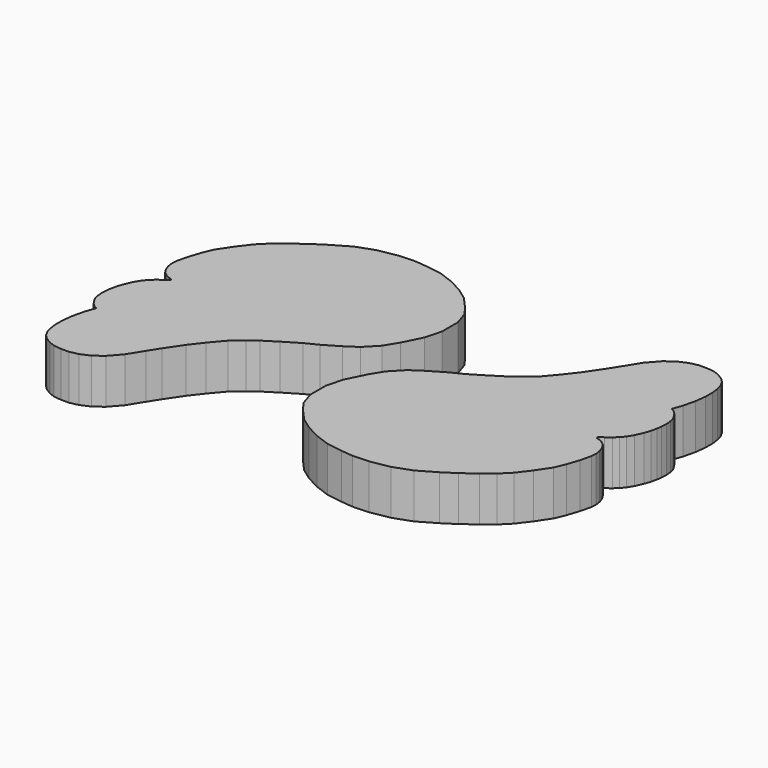
from build123d import *

# Parameters (mm, degrees)
PAD042_DEPTH            = 5
BODY042_PLACEMENT_ANGLE = 180
PAD041_DEPTH            = 5


with BuildPart() as body042:
    # Sketch044 → Pad042 (new body)
    with BuildSketch(Plane.XY):
        Polygon((-0.715895, 10.459235), (0.958153, 11.443971), (2.336782, 12.133285), (4.060069, 13.167257), (5.537171, 14.102756), (6.536532, 14.831632), (7.712062, 15.853839), (8.973101, 17.336113), (10.079276, 18.774139), (11.296068, 20.566143), (12.092514, 21.827183), (13.116936, 23.475929), (14.223111, 24.736969), (15.240791, 25.489166), (16.280596, 25.931637), (17.221134, 26.137039), (18.110924, 26.137039), (18.926565, 26.048061), (19.579077, 25.810783), (20.261248, 25.395548), (20.720972, 24.935823), (21.062059, 24.312971), (21.241928, 23.641508), (21.345737, 22.840698), (21.345737, 21.87676), (21.197439, 20.690374), (20.871256, 19.321636), (20.485682, 18.239059), (20.894186, 17.997505), (21.202349, 17.699284), (21.480688, 17.301653), (21.749088, 16.804617), (21.858437, 16.327463), (21.90814, 15.76084), (21.878248, 15.092189), (21.808664, 14.545448), (21.659552, 13.879419), (21.430916, 13.203449), (21.042017, 12.334372), (20.664268, 11.708105), (20.256699, 11.221009), (19.799425, 10.813439), (19.252686, 10.395929), (18.77553, 10.048003), (18.764149, 9.924158), (18.923201, 9.834691), (19.221422, 9.765106), (19.569347, 9.566292), (19.998131, 9.245623), (20.23671, 8.897697), (20.435524, 8.450364), (20.544872, 8.11238), (20.634338, 7.525877), (20.584635, 6.919492), (20.302982, 5.715654), (19.850153, 4.339052), (19.361095, 3.179808), (18.328644, 1.640186), (17.289362, 0.272043), (16.238798, -0.778522), (15.043327, -1.720408), (13.576158, -2.8072), (12.181441, -3.71286), (10.236815, -4.842392), (8.226252, -5.56692), (6.107007, -5.947297), (4.295688, -6.01975), (2.991537, -5.892957), (1.173591, -5.613963), (-0.443623, -5.019885), (-1.961825, -4.227778), (-3.248996, -3.303655), (-4.536168, -1.884467), (-5.262265, -0.86133), (-5.75733, 0.656871), (-5.75733, 2.868166), (-5.262265, 4.716413), (-4.237876, 6.772507), (-3.346758, 8.224701), (-2.043983, 9.573533), align=None)
    extrude(amount=PAD042_DEPTH)


with BuildPart() as body042_1:
    # Body042 placement: moved
    add(body042.part.moved(Location((-10, 20, -5))).rotate(Axis((-10, 20, -5), (0, 0, 1)), BODY042_PLACEMENT_ANGLE))


with BuildPart() as fusion007:
    # Sketch043 → Pad041 (new body)
    with BuildSketch(Plane.XY):
        Polygon((-0.715895, 10.459235), (0.958153, 11.443971), (2.336782, 12.133285), (4.060069, 13.167257), (5.537171, 14.102756), (6.536532, 14.831632), (7.712062, 15.853839), (8.973101, 17.336113), (10.079276, 18.774139), (11.296068, 20.566143), (12.092514, 21.827183), (13.116936, 23.475929), (14.223111, 24.736969), (15.240791, 25.489166), (16.280596, 25.931637), (17.221134, 26.137039), (18.110924, 26.137039), (18.926565, 26.048061), (19.579077, 25.810783), (20.261248, 25.395548), (20.720972, 24.935823), (21.062059, 24.312971), (21.241928, 23.641508), (21.345737, 22.840698), (21.345737, 21.87676), (21.197439, 20.690374), (20.871256, 19.321636), (20.485682, 18.239059), (20.894186, 17.997505), (21.202349, 17.699284), (21.480688, 17.301653), (21.749088, 16.804617), (21.858437, 16.327463), (21.90814, 15.76084), (21.878248, 15.092189), (21.808664, 14.545448), (21.659552, 13.879419), (21.430916, 13.203449), (21.042017, 12.334372), (20.664268, 11.708105), (20.256699, 11.221009), (19.799425, 10.813439), (19.252686, 10.395929), (18.77553, 10.048003), (18.764149, 9.924158), (18.923201, 9.834691), (19.221422, 9.765106), (19.569347, 9.566292), (19.998131, 9.245623), (20.23671, 8.897697), (20.435524, 8.450364), (20.544872, 8.11238), (20.634338, 7.525877), (20.584635, 6.919492), (20.302982, 5.715654), (19.850153, 4.339052), (19.361095, 3.179808), (18.328644, 1.640186), (17.289362, 0.272043), (16.238798, -0.778522), (15.043327, -1.720408), (13.576158, -2.8072), (12.181441, -3.71286), (10.236815, -4.842392), (8.226252, -5.56692), (6.107007, -5.947297), (4.295688, -6.01975), (2.991537, -5.892957), (1.173591, -5.613963), (-0.443623, -5.019885), (-1.961825, -4.227778), (-3.248996, -3.303655), (-4.536168, -1.884467), (-5.262265, -0.86133), (-5.75733, 0.656871), (-5.75733, 2.868166), (-5.262265, 4.716413), (-4.237876, 6.772507), (-3.346758, 8.224701), (-2.043983, 9.573533), align=None)
    extrude(amount=PAD041_DEPTH)


with BuildPart() as fusion007_1:
    # Body041 placement: moved
    add(fusion007.part.moved(Location((0, 0, -5))))

    # Fusion007: union Body042
    add(body042_1.part)


with BuildPart() as fusion007_2:
    # Fusion007 placement: moved
    add(fusion007_1.part.moved(Location((-20, -10, 0))))


solid = fusion007_2.part
